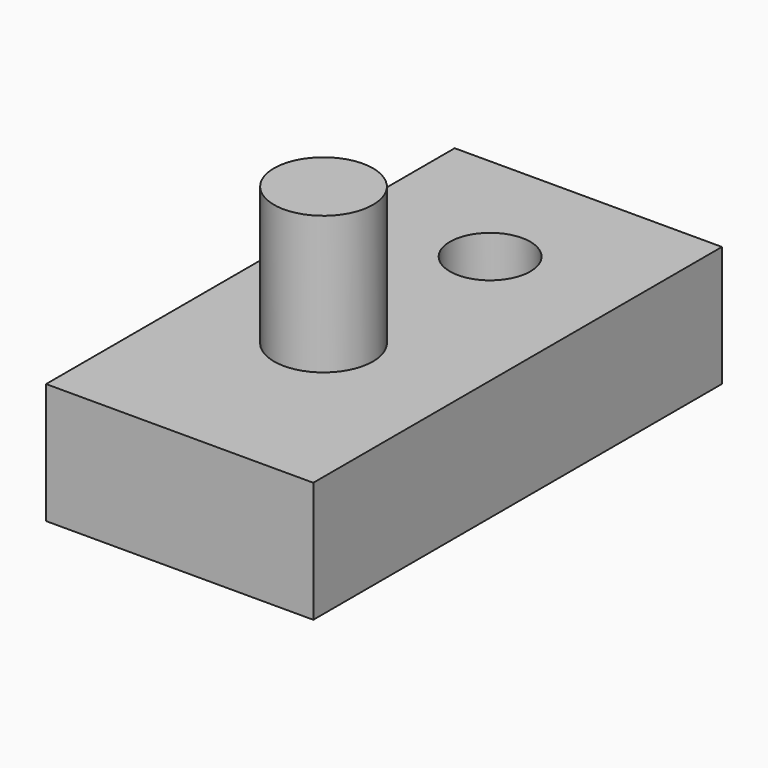
from build123d import *

# Parameters (mm, degrees)
F0_W     = 13.288778
F0_H     = 6
F1_DEPTH = 25.4
F2_R     = 2
F3_DEPTH = 25.4
F4_R     = 2.462138
F5_DEPTH = 6.858


with BuildPart() as f1:
    # F0 (on Front) → F1 (new body)
    with BuildSketch(Plane.XZ):
        with Locations((-26.140303, 27.751791)):
            Rectangle(F0_W, F0_H)
    extrude(amount=F1_DEPTH)

    # F2 (on face) → F3 (cut)
    with BuildSketch(Plane.XY.offset(30.751791)):
        with Locations((-26.014924, -6.260172)):
            Circle(F2_R)
    extrude(amount=-F3_DEPTH, mode=Mode.SUBTRACT)

    # F4 (on face) → F5 (join)
    with BuildSketch(Plane.XY.offset(30.751791)):
        with Locations((-26.519462, -15.987486)):
            Circle(F4_R)
    extrude(amount=F5_DEPTH)


solid = f1.part
